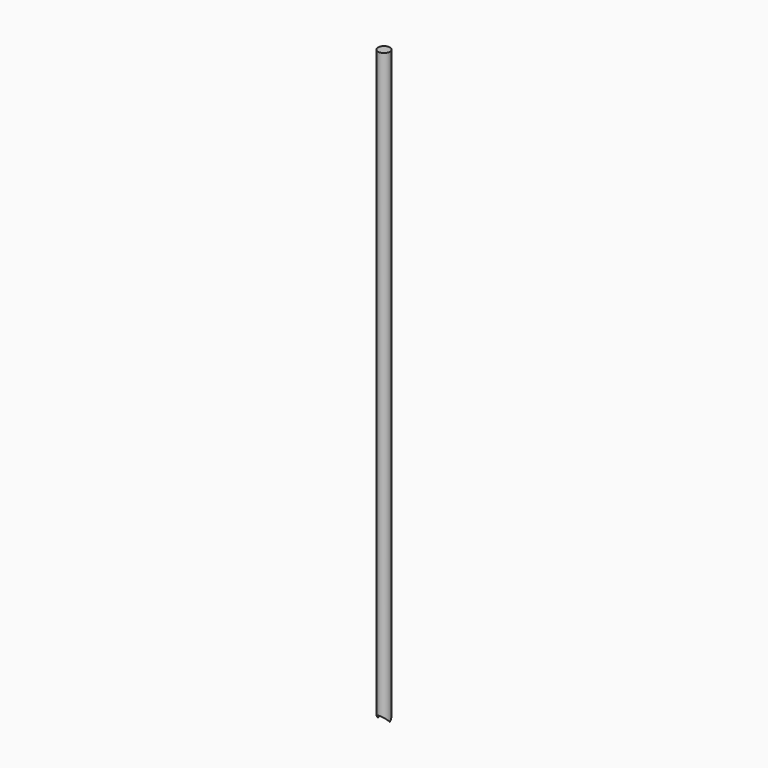
from build123d import *

# Parameters (mm, degrees)
F0_R     = 5
F1_DEPTH = 500
F2_W     = 5
F2_H     = 10


with BuildPart() as f1:
    # F0 (on Top) → F1 (new body)
    with BuildSketch(Plane.XY):
        Circle(F0_R)
    extrude(amount=F1_DEPTH)

    # F2 (on Top) → F3 (revolve, cut)
    with BuildSketch(Plane.XY):
        with Locations((-2.5, 0)):
            Rectangle(F2_W, F2_H)
    revolve(axis=Axis((0, 0, 0), (0, 1, 0)), mode=Mode.SUBTRACT)


solid = f1.part
